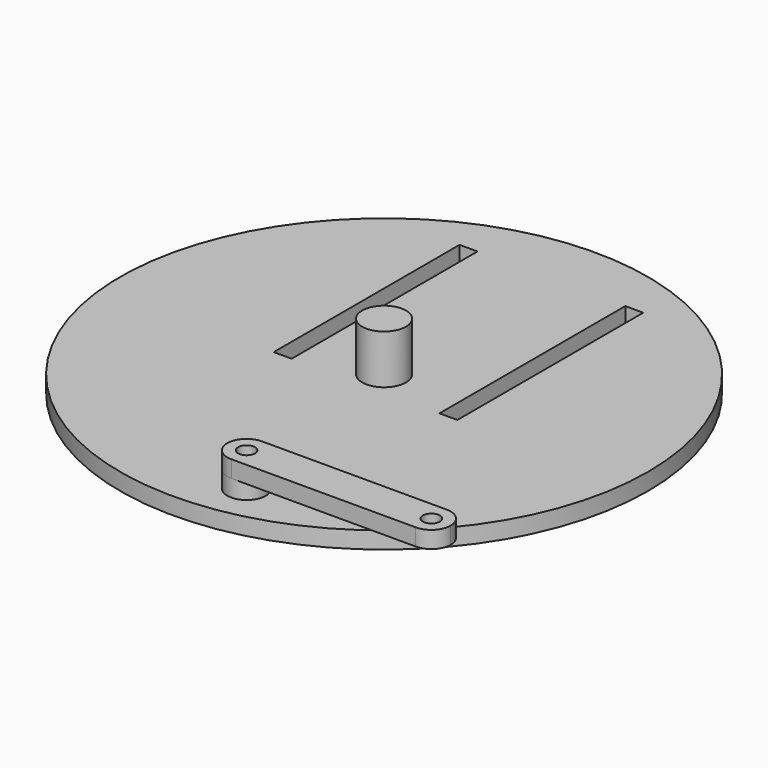
from build123d import *

# Parameters (mm, degrees)
F0_R     = 50
F0_R_2   = 1.6
F0_W     = 3.4
F0_H     = 44
F0_R_3   = 4.15
F1_DEPTH = 3.2
F2_R     = 12.5
F2_R_2   = 4.15
F3_DEPTH = 3.2
F4_DEPTH = 12.5
F5_R     = 3.65
F5_R_2   = 1.6
F6_DEPTH = 3.2
F7_R     = 1.6
F8_DEPTH = 3.2


with BuildPart() as f1:
    # F0 (on Top) → F1 (new body)
    with BuildSketch(Plane.XY):
        Circle(F0_R)
        with Locations((6.9906120189, -41.291178298)):
            Circle(F0_R_2, mode=Mode.SUBTRACT)
        with Locations((-15.506935212, 17.3723615035)):
            Rectangle(F0_W, F0_H, mode=Mode.SUBTRACT)
        Circle(F0_R_3, mode=Mode.SUBTRACT)
        with Locations((15.893064788, 17.3723615035)):
            Rectangle(F0_W, F0_H, mode=Mode.SUBTRACT)
    extrude(amount=F1_DEPTH)


with BuildPart() as f3:
    # F2 (on face) → F3 (new body)
    with BuildSketch(Plane.XY):
        Circle(F2_R)
        Circle(F2_R_2, mode=Mode.SUBTRACT)
    extrude(amount=-F3_DEPTH)


with BuildPart() as f4:
    # F0 (on Top) → F4 (new body, symmetric)
    with BuildSketch(Plane.XY):
        Circle(F0_R_3)
    extrude(amount=F4_DEPTH, both=True)


with BuildPart() as f6:
    # F5 (on face) → F6 (new body)
    with BuildSketch(Plane.XY.offset(3.2)):
        with Locations((6.9906120189, -41.291178298)):
            Circle(F5_R)
        with Locations((6.9906120189, -41.291178298)):
            Circle(F5_R_2, mode=Mode.SUBTRACT)
    extrude(amount=F6_DEPTH)


with BuildPart() as f8:
    # F7 (on face) → F8 (new body)
    with BuildSketch(Plane.XY.offset(6.4)):
        with BuildLine():
            ThreePointArc((10.6406120189, -41.291178298), (9.607413989, -43.8357504524), (7.0927504029, -44.9397489429))
            Line((7.0927504029, -44.9397489429), (41.8884736348, -44.9397489429))
            ThreePointArc((41.8884736348, -44.9397489429), (38.3406120189, -41.291178298), (41.8884736348, -37.6426076531))
            Line((41.8884736348, -37.6426076531), (7.0927504029, -37.6426076531))
            ThreePointArc((7.0927504029, -37.6426076531), (9.607413989, -38.7466061436), (10.6406120189, -41.291178298))
        make_face()
        with BuildLine():
            ThreePointArc((7.0927504029, -37.6426076531), (3.3406120189, -41.291178298), (7.0927504029, -44.9397489429))
            ThreePointArc((7.0927504029, -44.9397489429), (9.607413989, -43.8357504524), (10.6406120189, -41.291178298))
            ThreePointArc((10.6406120189, -41.291178298), (9.607413989, -38.7466061436), (7.0927504029, -37.6426076531))
        make_face()
        with Locations((6.9906120189, -41.291178298)):
            Circle(F7_R, mode=Mode.SUBTRACT)
        with BuildLine():
            ThreePointArc((41.8884736348, -37.6426076531), (38.3406120189, -41.291178298), (41.8884736348, -44.9397489429))
            ThreePointArc((41.8884736348, -44.9397489429), (44.5351841733, -43.9079802681), (45.6406120189, -41.291178298))
            ThreePointArc((45.6406120189, -41.291178298), (44.5351841733, -38.6743763279), (41.8884736348, -37.6426076531))
        make_face()
        with Locations((41.9906120189, -41.291178298)):
            Circle(F7_R, mode=Mode.SUBTRACT)
    extrude(amount=F8_DEPTH)


solid = Compound([f1.part, f3.part, f4.part, f6.part, f8.part])
